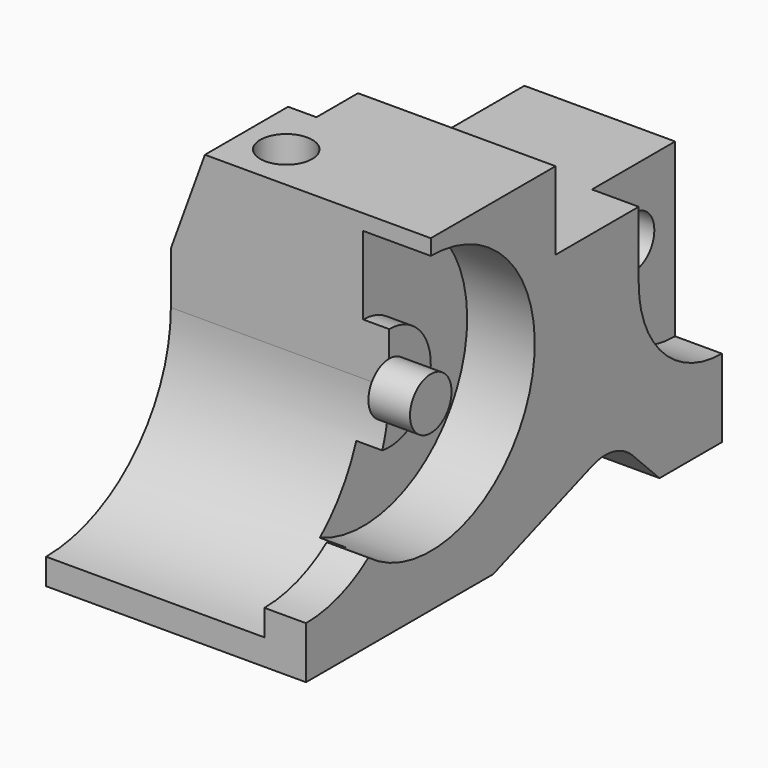
from build123d import *

# Parameters (mm, degrees)
F0_W      = 100
F0_H      = 63
F1_DEPTH  = 25
F3_DEPTH  = 15
F5_DEPTH  = 9
F7_DEPTH  = 4
F8_R      = 10
F9_DEPTH  = 5
F11_DEPTH = 42
F12_W     = 8
F12_H     = 30
F13_DEPTH = 10
F14_R     = 5
F15_DEPTH = 8
F17_DEPTH = 50.001
F19_DEPTH = 70.001
F20_R     = 5
F21_DEPTH = 41.001
F22_R     = 5
F23_DEPTH = 63.001
F24_W     = 12
F24_H     = 50
F25_DEPTH = 48.001


with BuildPart() as f1:
    # F0 (on Right) → F1 (new body, symmetric)
    with BuildSketch(Plane.YZ):
        Rectangle(F0_W, F0_H)
    extrude(amount=F1_DEPTH, both=True)

    # F2 (on face) → F3 (cut)
    with BuildSketch(Plane.XY.offset(31.5)):
        Polygon((25, 50), (-25, 50), (-25, 0), (-13, 0), (-13, 10), (25, 10), align=None)
    extrude(amount=-F3_DEPTH, mode=Mode.SUBTRACT)

    # F4 (on face) → F5 (cut)
    with BuildSketch(Plane.YZ.offset(25)):
        with BuildLine():
            ThreePointArc((-35, 23.5), (-75, 3.5), (-35, -16.5))
            ThreePointArc((-35, -16.5), (5, 3.5), (-35, 23.5))
        make_face()
        with BuildLine():
            ThreePointArc((30, 3.5), (35.8578643763, -10.6421356237), (50, -16.5))
            Line((50, -16.5), (50, 16.5))
            Line((50, 16.5), (30, 16.5))
            Line((30, 16.5), (30, 3.5))
        make_face()
    extrude(amount=-F5_DEPTH, mode=Mode.SUBTRACT)

    # F6 (on face) → F7 (cut)
    with BuildSketch(Plane.YZ.offset(16)):
        with BuildLine():
            ThreePointArc((-35, 23.5), (-75, 3.5), (-35, -16.5))
            ThreePointArc((-35, -16.5), (5, 3.5), (-35, 23.5))
        make_face()
    extrude(amount=-F7_DEPTH, mode=Mode.SUBTRACT)

    # F8 (on face) → F9 (join)
    with BuildSketch(Plane.YZ.offset(12)):
        with Locations((-20, 3.5)):
            Circle(F8_R)
    extrude(amount=F9_DEPTH)

    # F10 (on face) → F11 (cut, through all)
    with BuildSketch(Plane(origin=(-25, 0, 0), x_dir=(0, -1, 0), z_dir=(-1, 0, 0))):
        with BuildLine():
            ThreePointArc((20, 3.5), (28.7867965644, -17.7132034356), (50, -26.5))
            Line((50, -26.5), (50, 31.5))
            Line((50, 31.5), (20, 31.5))
            Line((20, 31.5), (20, 3.5))
        make_face()
    extrude(amount=-F11_DEPTH, mode=Mode.SUBTRACT)

    # F12 (on face) → F13 (cut)
    with BuildSketch(Plane.XY.offset(31.5)):
        with Locations((21, -35)):
            Rectangle(F12_W, F12_H)
    extrude(amount=-F13_DEPTH, mode=Mode.SUBTRACT)

    # F14 (on face) → F15 (join)
    with BuildSketch(Plane.YZ.offset(17)):
        with Locations((-20, 3.5)):
            Circle(F14_R)
    extrude(amount=F15_DEPTH)

    # F16 (on face) → F17 (cut, through all)
    with BuildSketch(Plane.YZ.offset(25)):
        with BuildLine():
            Line((18.8061186388, -22.8352814221), (-5, -31.5))
            Line((-5, -31.5), (35, -31.5))
            Line((35, -31.5), (28.4799091447, -24.9799091447))
            ThreePointArc((28.4799091447, -24.9799091447), (23.9555648798, -22.4977688838), (18.8061186388, -22.8352814221))
        make_face()
    extrude(amount=-F17_DEPTH, mode=Mode.SUBTRACT)

    # F18 (on face) → F19 (cut, through all)
    with BuildSketch(Plane.XZ.offset(20)):
        Polygon((-18.4485357832, 31.5), (-25, 31.5), (-25, 13.5), align=None)
    extrude(amount=-F19_DEPTH, mode=Mode.SUBTRACT)

    # F20 (on face) → F21 (cut, through all)
    with BuildSketch(Plane.YZ.offset(16)):
        with Locations((40, 3.5)):
            Circle(F20_R)
    extrude(amount=-F21_DEPTH, mode=Mode.SUBTRACT)

    # F22 (on face) → F23 (cut, through all)
    with BuildSketch(Plane.XY.offset(31.5)):
        with Locations((-10, -11)):
            Circle(F22_R)
    extrude(amount=-F23_DEPTH, mode=Mode.SUBTRACT)

    # F24 (on face) → F25 (cut, through all)
    with BuildSketch(Plane.XY.offset(16.5)):
        with Locations((-19, 25)):
            Rectangle(F24_W, F24_H)
    extrude(amount=-F25_DEPTH, mode=Mode.SUBTRACT)


solid = f1.part
